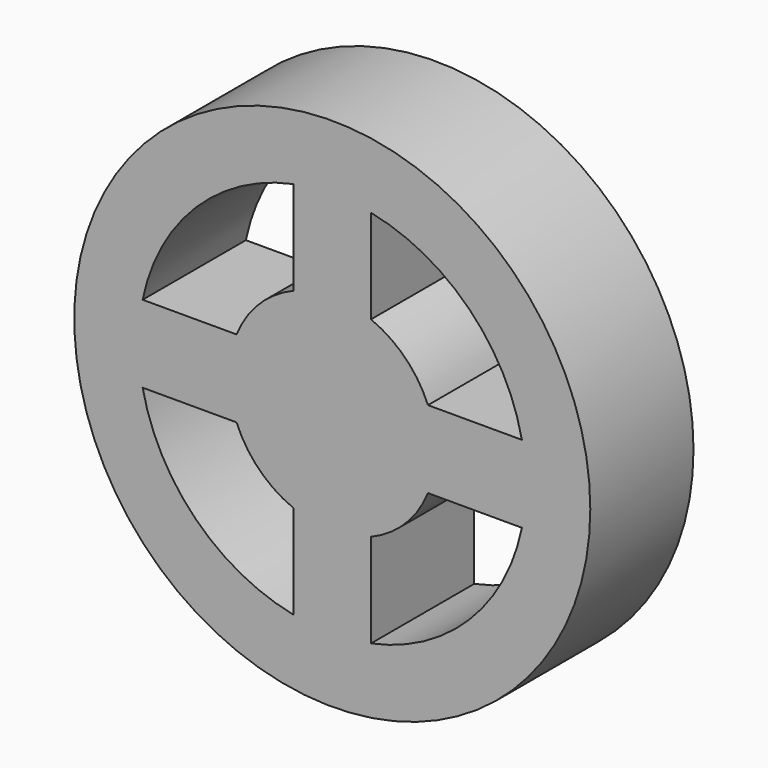
from build123d import *

# Parameters (mm, degrees)
F0_R     = 10
F1_DEPTH = 5


with BuildPart() as f1:
    # F0 (on Front) → F1 (new body)
    with BuildSketch(Plane.XZ):
        Circle(F0_R)
        with BuildLine():
            ThreePointArc((-3.708099, -1.5), (-2.828427, -2.828427), (-1.5, -3.708099))
            Line((-1.5, -3.708099), (-1.5, -7.348469))
            ThreePointArc((-1.5, -7.348469), (-5.303301, -5.303301), (-7.348469, -1.5))
            Line((-7.348469, -1.5), (-3.708099, -1.5))
        make_face(mode=Mode.SUBTRACT)
        with BuildLine():
            Line((3.708099, -1.5), (7.348469, -1.5))
            ThreePointArc((7.348469, -1.5), (5.303301, -5.303301), (1.5, -7.348469))
            Line((1.5, -7.348469), (1.5, -3.708099))
            ThreePointArc((1.5, -3.708099), (2.828427, -2.828427), (3.708099, -1.5))
        make_face(mode=Mode.SUBTRACT)
        with BuildLine():
            Line((-1.5, 7.348469), (-1.5, 3.708099))
            ThreePointArc((-1.5, 3.708099), (-2.828427, 2.828427), (-3.708099, 1.5))
            Line((-3.708099, 1.5), (-7.348469, 1.5))
            ThreePointArc((-7.348469, 1.5), (-5.303301, 5.303301), (-1.5, 7.348469))
        make_face(mode=Mode.SUBTRACT)
        with BuildLine():
            Line((1.5, 3.708099), (1.5, 7.348469))
            ThreePointArc((1.5, 7.348469), (5.303301, 5.303301), (7.348469, 1.5))
            Line((7.348469, 1.5), (3.708099, 1.5))
            ThreePointArc((3.708099, 1.5), (2.828427, 2.828427), (1.5, 3.708099))
        make_face(mode=Mode.SUBTRACT)
    extrude(amount=F1_DEPTH)


solid = f1.part
